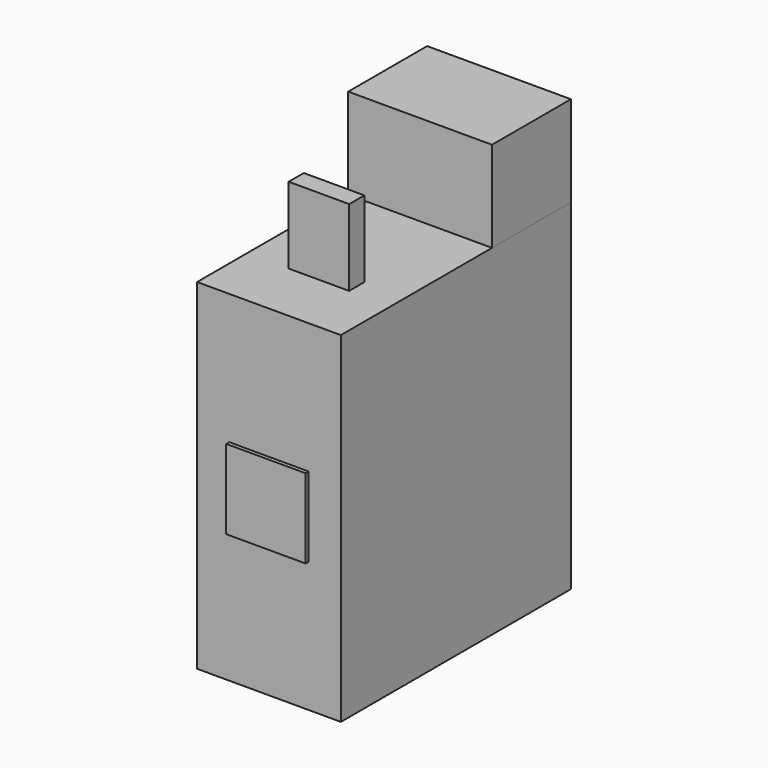
from build123d import *

# Parameters (mm, degrees)
F0_W      = 965.2
F0_H      = 2286
F1_DEPTH  = 965.2
F2_DEPTH  = 965.2
F3_W      = 406.4
F3_H      = 127
F4_DEPTH  = 513.08
F5_W      = 533.4
F5_H      = 533.4
F6_DEPTH  = 482.6
F7_DEPTH  = 25.4
F9_W      = 965.2
F9_H      = 662.2150997162
F10_DEPTH = 609.6


with BuildPart() as f1:
    # F0 (on Front) → F1 (new body)
    with BuildSketch(Plane.XZ):
        with Locations((482.6, 1143)):
            Rectangle(F0_W, F0_H)
    extrude(amount=-F1_DEPTH)


with BuildPart() as f2:
    # F2 (new): a face of the model
    f2_faces = [f1.part.faces().sort_by_distance(p)[0] for p in [
        (482.6, 965.2, 1143),
    ]]
    extrude(f2_faces, amount=F2_DEPTH)


with BuildPart() as f4:
    # F3 (on face) → F4 (new body)
    with BuildSketch(Plane.XY.offset(2286)):
        with Locations((482.6, 482.6)):
            Rectangle(F3_W, F3_H)
    extrude(amount=F4_DEPTH)


with BuildPart() as f6:
    # F5 (on Front) → F6 (new body)
    with BuildSketch(Plane.XZ):
        with Locations((482.6, 1143)):
            Rectangle(F5_W, F5_H)
    extrude(amount=-F6_DEPTH)

    # F5 (on Front) → F7 (join)
    with BuildSketch(Plane.XZ):
        with Locations((482.6, 1143)):
            Rectangle(F5_W, F5_H)
    extrude(amount=F7_DEPTH)


with BuildPart() as f1_1:
    add(f1.part)

    # F8: union F2
    add(f2.part)


with BuildPart() as f10:
    # F9 (on face) → F10 (new body)
    with BuildSketch(Plane.XY.offset(2286)):
        with Locations((482.6, 1599.2924501419)):
            Rectangle(F9_W, F9_H)
    extrude(amount=F10_DEPTH)


solid = Compound([f4.part, f6.part, f1_1.part, f10.part])
